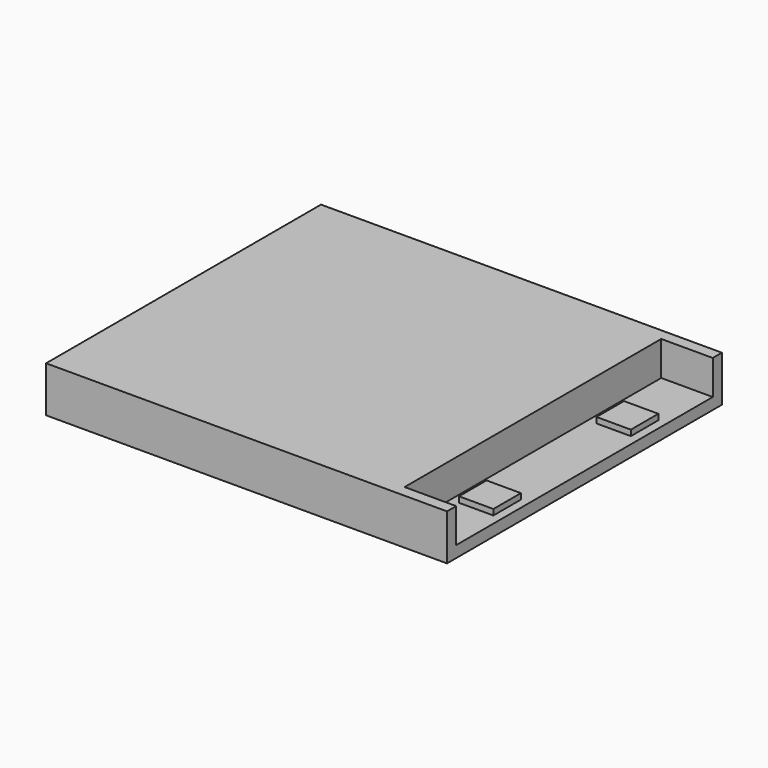
from build123d import *

# Parameters (mm, degrees)
SKETCH034_W     = 35
SKETCH034_H     = 30
PAD022_DEPTH    = 4
SKETCH035_W     = 4.5
SKETCH035_H     = 28
POCKET009_DEPTH = 3
SKETCH036_W     = 3
SKETCH036_H     = 3
PAD023_DEPTH    = 0.5


with BuildPart() as part:
    # Sketch034 (on Face1 of CopyPad014001) → Pad022 (new body)
    with BuildSketch(Plane.XY.offset(1.2)):
        with Locations((19.5, 26.55)):
            Rectangle(SKETCH034_W, SKETCH034_H)
    extrude(amount=PAD022_DEPTH)

    # Sketch035 (on Face6 of Pad022) → Pocket009 (cut)
    with BuildSketch(Plane.XY.offset(5.2)):
        with Locations((34.75, 26.55)):
            Rectangle(SKETCH035_W, SKETCH035_H)
    extrude(amount=-POCKET009_DEPTH, mode=Mode.SUBTRACT)

    # Sketch036 (on Face8 of Pocket009) → Pad023 (join)
    with BuildSketch(Plane.XY.offset(2.2)):
        with Locations((34.75, 34.05)):
            Rectangle(SKETCH036_W, SKETCH036_H)
        with Locations((34.75, 19.05)):
            Rectangle(SKETCH036_W, SKETCH036_H)
    extrude(amount=PAD023_DEPTH)


solid = part.part
